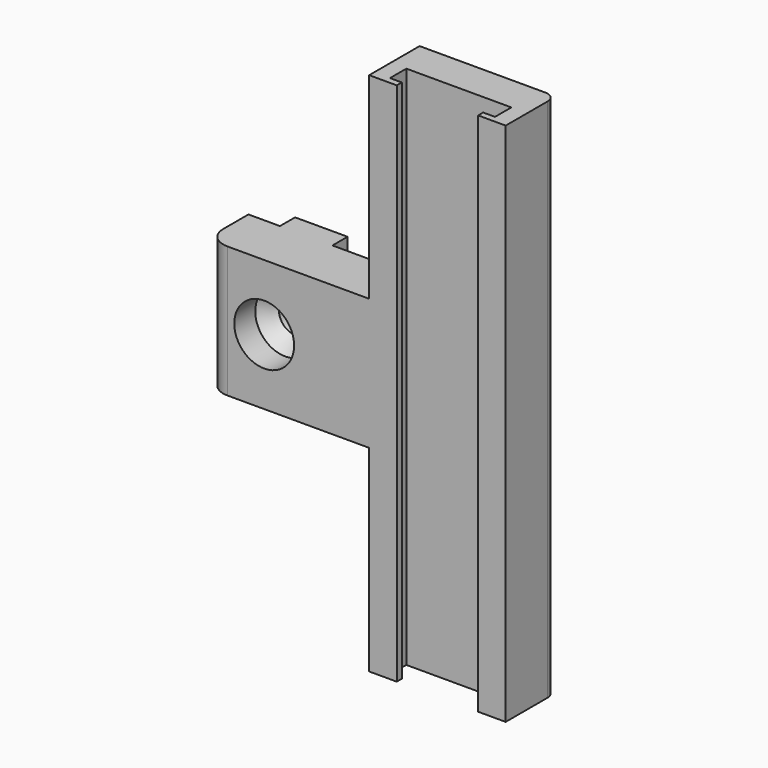
from build123d import *

# Parameters (mm, degrees)
PAD009_DEPTH    = 12.5
POCKET001_DEPTH = 1.75
PAD013_DEPTH    = 12.5


with BuildPart() as f_12_5mm_segment:
    # Sketch015 → Pad009 (new body)
    with BuildSketch(Plane.XY):
        with BuildLine():
            Line((10, -9), (10, -15))
            Line((10, -15), (12.625, -15))
            Line((12.625, -15), (12.625, -14.4))
            Line((12.625, -14.4), (11.5, -14.4))
            Line((11.5, -14.4), (11.5, -12.45))
            Line((11.5, -12.45), (21.5, -12.45))
            Line((21.5, -12.45), (21.5, -14.4))
            Line((21.5, -14.4), (20.375, -14.4))
            Line((20.375, -14.4), (20.375, -15))
            Line((20.375, -15), (23, -15))
            Line((23, -15), (23, -10))
            ThreePointArc((23, -10), (22.707107, -9.292893), (22, -9))
            Line((22, -9), (10, -9))
        make_face()
    extrude(amount=PAD009_DEPTH)

    # Sketch016 → Pocket001 (cut, symmetric)
    with BuildSketch(Plane(origin=(0, 0, 6.25), x_dir=(1, 0, 0), z_dir=(0, 0, -1))):
        with BuildLine():
            ThreePointArc((14.83303, 10.2), (13.737585, 9.87332), (13, 9))
            Line((11, 9), (13, 9))
            Line((12.497007, 10.860502), (11, 9))
            ThreePointArc((14.25, 11.7), (13.27818, 11.479302), (12.497007, 10.860502))
            Line((14.25, 11.7), (18.75, 11.7))
            ThreePointArc((20.502993, 10.860502), (19.72182, 11.479302), (18.75, 11.7))
            Line((20.502993, 10.860502), (22, 9))
            Line((22, 9), (20, 9))
            ThreePointArc((20, 9), (19.262415, 9.87332), (18.16697, 10.2))
            Line((14.83303, 10.2), (18.16697, 10.2))
        make_face()
    extrude(amount=POCKET001_DEPTH, both=True, mode=Mode.SUBTRACT)


with BuildPart() as obj1:
    # Body019 base: copy of 12.5mm-Segment
    add(f_12_5mm_segment.part)


with BuildPart() as obj2:
    # Body022 base: copy of obj1
    add(obj1.part)


with BuildPart() as obj2_1:
    # Body022 placement: moved
    add(obj2.part.moved(Location((0, 0, 12.5))))


with BuildPart() as obj3:
    # Body012004 base: copy of 12.5mm-Segment
    add(f_12_5mm_segment.part)


with BuildPart() as obj3_1:
    # Body012004 placement: moved
    add(obj3.part.moved(Location((0, 0, 25))))


with BuildPart() as obj4:
    # Body012005 base: copy of 12.5mm-Segment
    add(f_12_5mm_segment.part)


with BuildPart() as obj4_1:
    # Body012005 placement: moved
    add(obj4.part.moved(Location((0, 0, 37.5))))


with BuildPart() as obj5:
    # Sketch027 → Pad013 (new body)
    with BuildSketch(Plane.XY):
        with BuildLine():
            Line((-3.5, -15), (10, -15))
            Line((10, -9), (10, -15))
            ThreePointArc((8.267949, -10), (9.267949, -9.732051), (10, -9))
            Line((2.5, -10), (8.267949, -10))
            Line((2.5, -8.2), (2.5, -10))
            Line((-2.5, -8.2), (2.5, -8.2))
            Line((-2.5, -10), (-2.5, -8.2))
            Line((-5.5, -10), (-2.5, -10))
            Line((-5.5, -13), (-5.5, -10))
            ThreePointArc((-5.5, -13), (-4.914214, -14.414214), (-3.5, -15))
        make_face()
    extrude(amount=PAD013_DEPTH)

    # Sketch028 → Groove (revolve, cut)
    with BuildSketch(Plane(origin=(0, -11, 6.25), x_dir=(-1, 0, 0), z_dir=(0, 0, 1))):
        Polygon((0, 4), (2.85, 4), (2.85, 1.5), (1.6, 0.25), (1.6, -7.75), (0, -7.75), align=None)
    revolve(axis=Axis((0, -11, 6.25), (0, -1, 0)), mode=Mode.SUBTRACT)


with BuildPart() as obj5_1:
    # Body018 placement: moved
    add(obj5.part.moved(Location((0, 0, 18.75))))

    # Fusion: union obj1, obj2, obj3, obj4
    add(obj1.part)
    add(obj2_1.part)
    add(obj3_1.part)
    add(obj4_1.part)


with BuildPart() as obj5_2:
    # Fusion placement: moved
    add(obj5_1.part.moved(Location((0, 0, 10))))


solid = obj5_2.part
